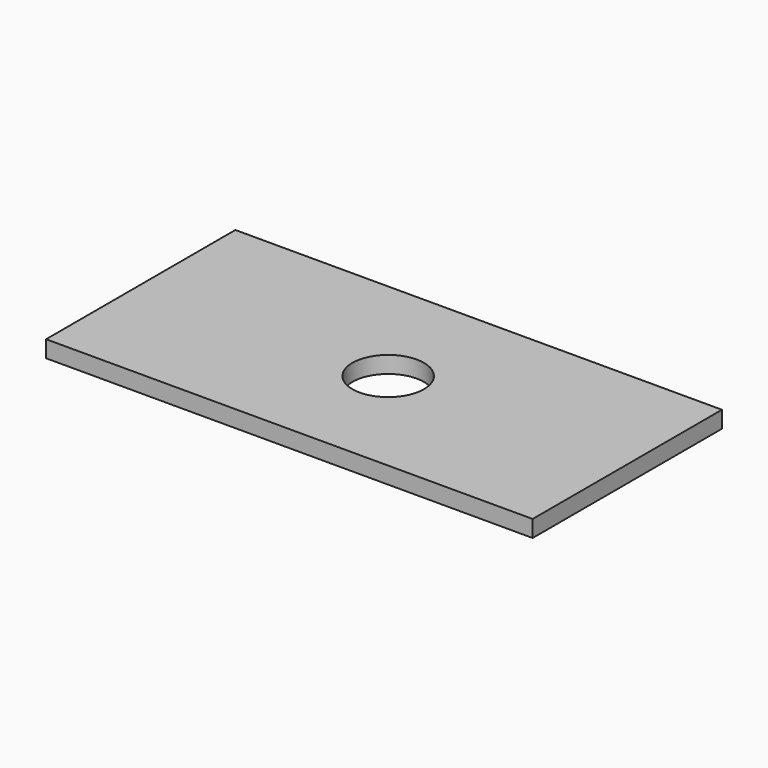
from build123d import *

# Parameters (mm, degrees)
CIRCLE_R           = 4.26
EXTRUSION001_DEPTH = 34.920666
RECTANGLE_W        = 28.2
RECTANGLE_H        = 58
EXTRUSION_DEPTH    = 2


with BuildPart() as extrusion001:
    # Circle → Extrusion001 (new body)
    with BuildSketch(Plane(origin=(-279.976256, -51.600832, -5.133948), x_dir=(0, 1, 0), z_dir=(0, 0, -1))):
        Circle(CIRCLE_R)
    extrude(amount=-EXTRUSION001_DEPTH)


with BuildPart() as cut001:
    # Rectangle → Extrusion (new body)
    with BuildSketch(Plane(origin=(-309.476256, -65.700832, -5.133948), x_dir=(0, 1, 0), z_dir=(0, 0, -1))):
        with Locations((14.1, 29)):
            Rectangle(RECTANGLE_W, RECTANGLE_H)
    extrude(amount=-EXTRUSION_DEPTH)

    # Cut001: cut Extrusion001
    add(extrusion001.part, mode=Mode.SUBTRACT)


solid = cut001.part
